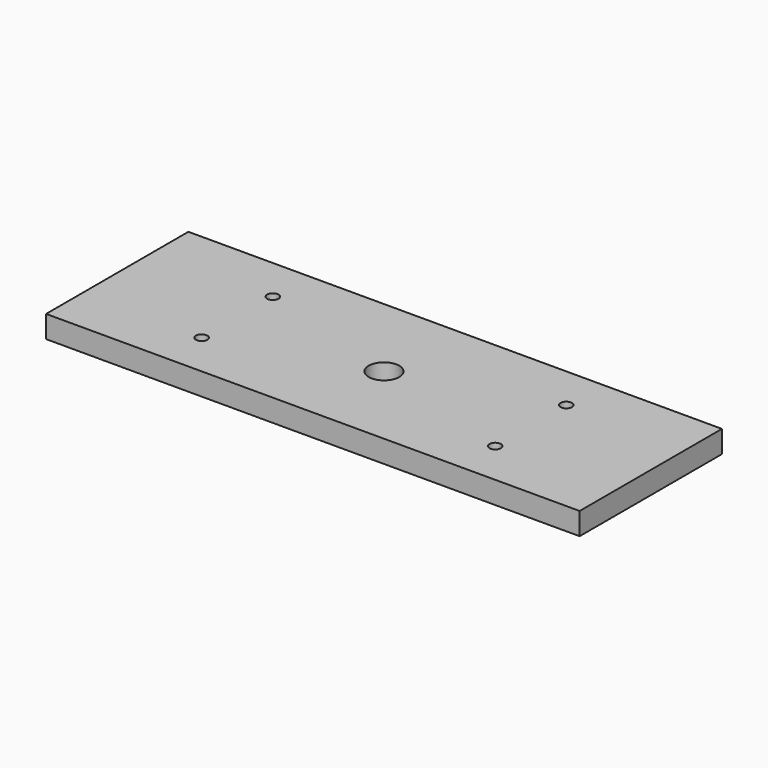
from build123d import *

# Parameters (mm, degrees)
F0_W     = 304.8
F0_H     = 101.6
F1_DEPTH = 12.7
F2_D     = 6.5278
F2_DEPTH = 16.9460333333
F2_TIP   = 1.9611489744
F3_D     = 17.4752
F3_DEPTH = 16.9418
F3_TIP   = 5.2500797448


with BuildPart() as f1:
    # F0 (on Top) → F1 (new body)
    with BuildSketch(Plane.XY):
        with Locations((152.4, 50.8)):
            Rectangle(F0_W, F0_H)
    extrude(amount=F1_DEPTH)

    # F2
    with Locations(Plane(origin=(0, 0, 0), x_dir=(1, 0, 0), z_dir=(0, 0, -1))):
        with Locations((68.58, -76.2), (68.58, -25.4), (236.22, -76.2), (236.22, -25.4)):
            Hole(F2_D / 2, depth=F2_DEPTH)
            with Locations((0, 0, -(F2_DEPTH + F2_TIP / 2))):  # 118° drill point
                Cone(0, F2_D / 2, F2_TIP, mode=Mode.SUBTRACT)

    # F3
    with Locations(Plane(origin=(0, 0, 0), x_dir=(1, 0, 0), z_dir=(0, 0, -1))):
        with Locations((152.4, -50.8)):
            Hole(F3_D / 2, depth=F3_DEPTH)
            with Locations((0, 0, -(F3_DEPTH + F3_TIP / 2))):  # 118° drill point
                Cone(0, F3_D / 2, F3_TIP, mode=Mode.SUBTRACT)


solid = f1.part
